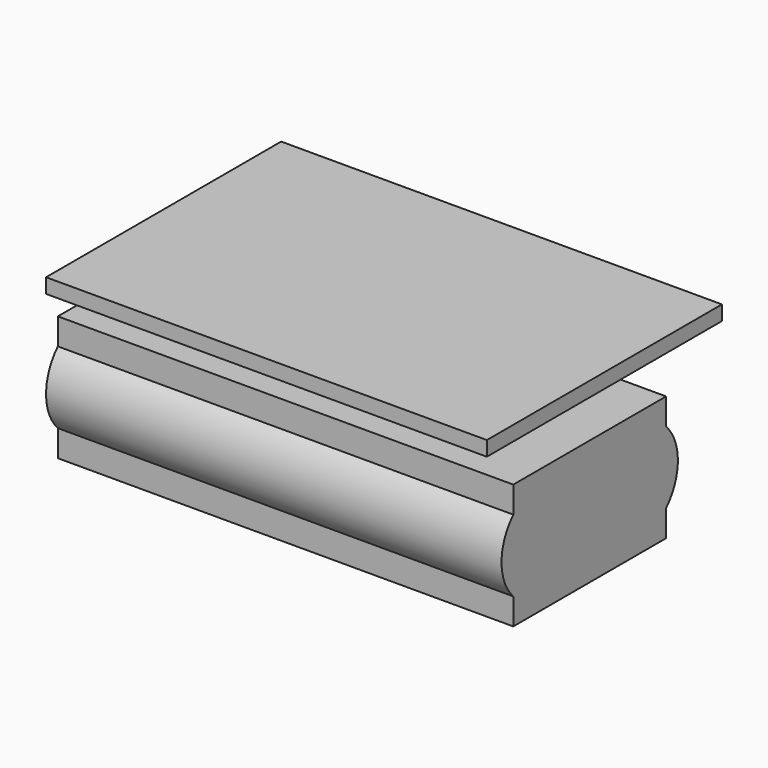
from build123d import *

# Parameters (mm, degrees)
F1_W     = 60
F1_H     = 40
F2_DEPTH = 2
F4_DEPTH = 62


with BuildPart() as f2:
    # F1 (on Top) → F2 (new body)
    with BuildSketch(Plane.XY):
        Rectangle(F1_W, F1_H)
    extrude(amount=F2_DEPTH)


with BuildPart() as f4:
    # F3 (on face) → F4 (new body)
    with BuildSketch(Plane(origin=(-30, 0, 0), x_dir=(0, -1, 0), z_dir=(-1, 0, 0))):
        with BuildLine():
            Line((-8, -3.5), (-8, -7.1010205144))
            ThreePointArc((-8, -7.1010205144), (-10, -12), (-8, -16.8989794856))
            Line((-8, -16.8989794856), (-8, -20.5))
            Line((-8, -20.5), (18, -20.5))
            Line((18, -20.5), (18, -16.8989794856))
            ThreePointArc((18, -16.8989794856), (20, -12), (18, -7.1010205144))
            Line((18, -7.1010205144), (18, -3.5))
            Line((18, -3.5), (-8, -3.5))
        make_face()
    extrude(amount=-F4_DEPTH)


solid = Compound([f2.part, f4.part])
